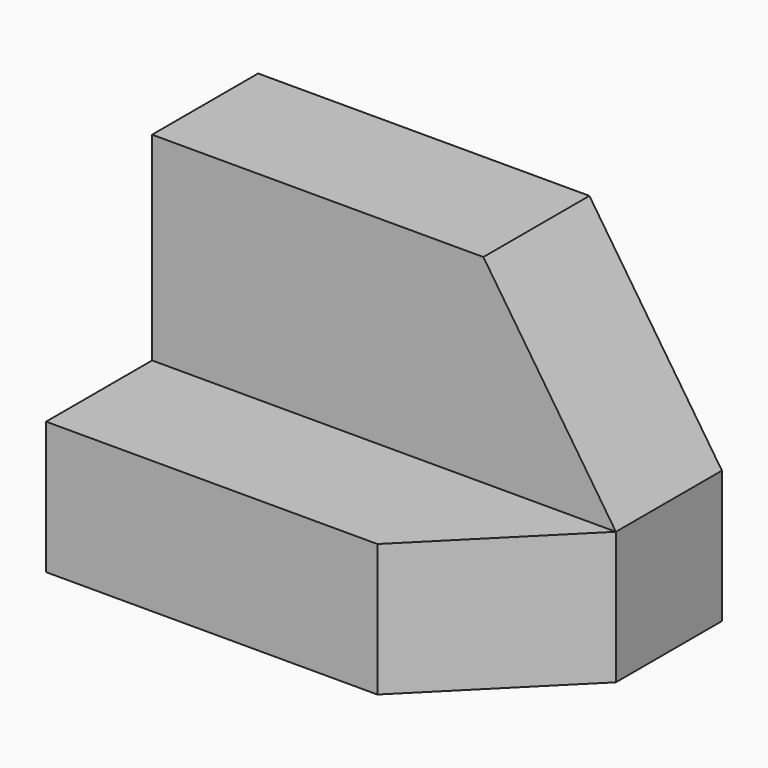
from build123d import *

# Parameters (mm, degrees)
F0_W     = 44.45
F0_H     = 31.75
F1_DEPTH = 25.4
F2_W     = 44.45
F2_H     = 19.05
F3_DEPTH = 12.7
F5_DEPTH = 25.4
F7_DEPTH = 25.4


with BuildPart() as f1:
    # F0 (on Front) → F1 (new body)
    with BuildSketch(Plane.XZ):
        with Locations((22.225, 15.875)):
            Rectangle(F0_W, F0_H)
    extrude(amount=F1_DEPTH)

    # F2 (on face) → F3 (cut)
    with BuildSketch(Plane.XZ.offset(25.4)):
        with Locations((22.225, 22.225)):
            Rectangle(F2_W, F2_H)
    extrude(amount=-F3_DEPTH, mode=Mode.SUBTRACT)

    # F4 (on face) → F5 (cut)
    with BuildSketch(Plane.XY.offset(12.7)):
        Polygon((44.45, -25.4), (44.45, -12.7), (31.75, -25.4), align=None)
    extrude(amount=-F5_DEPTH, mode=Mode.SUBTRACT)

    # F6 (on face) → F7 (cut)
    with BuildSketch(Plane.XZ.offset(12.7)):
        Polygon((31.75, 31.75), (44.45, 12.7), (44.45, 31.75), align=None)
    extrude(amount=-F7_DEPTH, mode=Mode.SUBTRACT)


solid = f1.part
